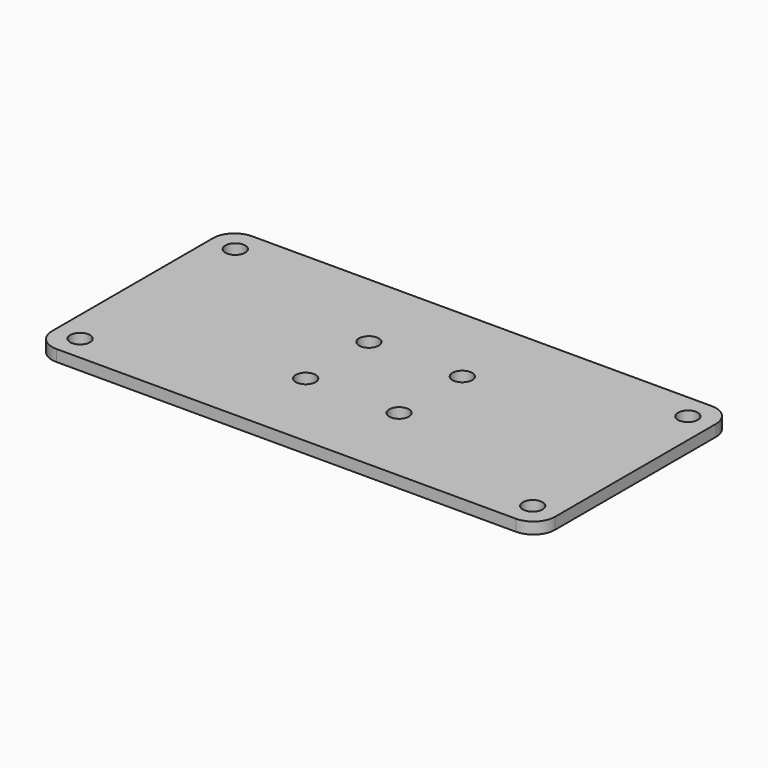
from build123d import *

# Parameters (mm, degrees)
F0_R     = 1.375
F1_DEPTH = 1.6


with BuildPart() as f1:
    # F0 (on Top) → F1 (new body)
    with BuildSketch(Plane.XY):
        with BuildLine():
            ThreePointArc((0, 3), (0.87868, 0.87868), (3, 0))
            Line((3, 0), (67, 0))
            ThreePointArc((67, 0), (69.12132, 0.87868), (70, 3))
            Line((70, 3), (70, 31))
            ThreePointArc((70, 31), (69.12132, 33.12132), (67, 34))
            Line((67, 34), (3, 34))
            ThreePointArc((3, 34), (0.87868, 33.12132), (0, 31))
            Line((0, 31), (0, 3))
        make_face()
        with Locations((3.5, 3.5)):
            Circle(F0_R, mode=Mode.SUBTRACT)
        with Locations((28.5, 11.5)):
            Circle(F0_R, mode=Mode.SUBTRACT)
        with Locations((66.5, 3.5)):
            Circle(F0_R, mode=Mode.SUBTRACT)
        with Locations((41.5, 11.5)):
            Circle(F0_R, mode=Mode.SUBTRACT)
        with Locations((28.5, 22.5)):
            Circle(F0_R, mode=Mode.SUBTRACT)
        with Locations((3.5, 30.5)):
            Circle(F0_R, mode=Mode.SUBTRACT)
        with Locations((41.5, 22.5)):
            Circle(F0_R, mode=Mode.SUBTRACT)
        with Locations((66.5, 30.5)):
            Circle(F0_R, mode=Mode.SUBTRACT)
    extrude(amount=F1_DEPTH)


solid = f1.part
